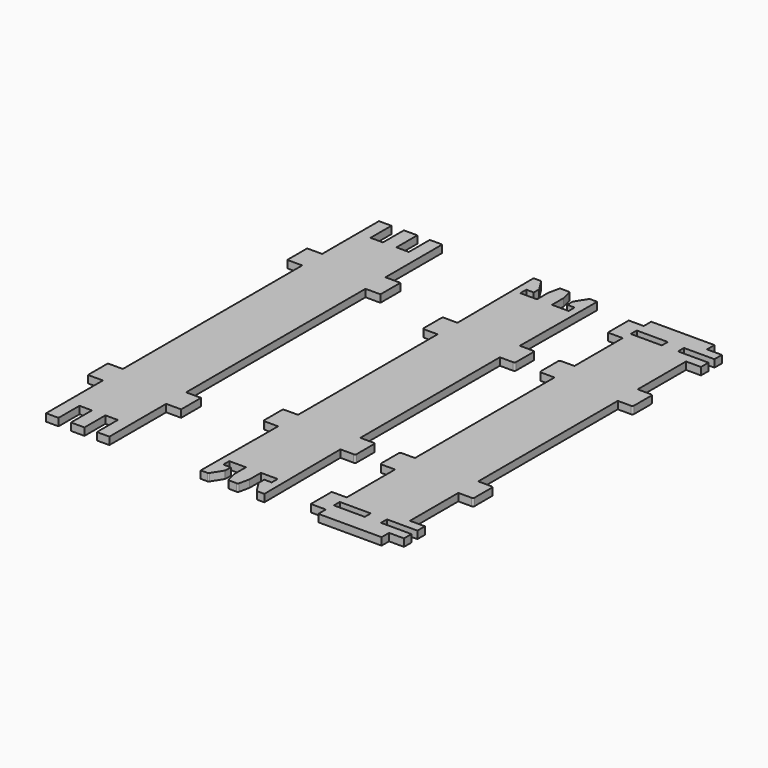
from build123d import *

# Parameters (mm, degrees)
F1_DEPTH = 3
F2_W     = 12.45
F2_H     = 3
F3_DEPTH = 3
F5_DEPTH = 3


with BuildPart() as f1:
    # F0 (on Top) → F1 (new body)
    with BuildSketch(Plane.XY):
        with BuildLine():
            Line((-9.7, 73), (-9.7, 76))
            Line((-9.7, 76), (-6.7, 76))
            Line((-6.7, 76), (-6.7, 78.555361))
            ThreePointArc((-6.7, 78.555361), (-6.726009, 78.738935), (-6.801989, 78.908059))
            Line((-6.801989, 78.908059), (-9.505527, 83.191854))
            ThreePointArc((-9.505527, 83.191854), (-9.745292, 83.417858), (-10.064382, 83.5))
            Line((-10.064382, 83.5), (-12.775105, 83.5))
            Line((-12.775105, 83.5), (-12.5, 45))
            Line((-12.5, 45), (-17.839156, 45))
            ThreePointArc((-17.839156, 45), (-18.306443, 44.806443), (-18.5, 44.339156))
            Line((-18.5, 44.339156), (-18.5, 35.660844))
            ThreePointArc((-18.5, 35.660844), (-18.306443, 35.193557), (-17.839156, 35))
            Line((-17.839156, 35), (-12.5, 35))
            Line((-12.5, 35), (-12.5, 0))
            Line((-12.5, 0), (-12.5, -35))
            Line((-12.5, -35), (-17.839156, -35))
            ThreePointArc((-17.839156, -35), (-18.306443, -35.193557), (-18.5, -35.660844))
            Line((-18.5, -35.660844), (-18.5, -44.339156))
            ThreePointArc((-18.5, -44.339156), (-18.306443, -44.806443), (-17.839156, -45))
            Line((-17.839156, -45), (-12.5, -45))
            Line((-12.5, -45), (-12.775105, -83.5))
            Line((-12.775105, -83.5), (-10.064382, -83.5))
            ThreePointArc((-10.064382, -83.5), (-9.745292, -83.417858), (-9.505527, -83.191854))
            Line((-9.505527, -83.191854), (-6.801989, -78.908059))
            ThreePointArc((-6.801989, -78.908059), (-6.726009, -78.738935), (-6.7, -78.555361))
            Line((-6.7, -78.555361), (-6.7, -76))
            Line((-6.7, -76), (-9.7, -76))
            Line((-9.7, -76), (-9.7, -73))
            Line((-9.7, -73), (-3, -73))
            Line((-3, -73), (-3, -78.746456))
            Line((-3, -78.746456), (-2.101524, -82.764542))
            ThreePointArc((-2.101524, -82.764542), (-1.869774, -83.136093), (-1.456606, -83.281178))
            Line((-1.456606, -83.281178), (0, -83.281178))
            Line((0, -83.281178), (1.456606, -83.281178))
            ThreePointArc((1.456606, -83.281178), (1.869774, -83.136093), (2.101524, -82.764542))
            Line((2.101524, -82.764542), (3, -78.746456))
            Line((3, -78.746456), (3, -73))
            Line((3, -73), (9.7, -73))
            Line((9.7, -73), (9.7, -76))
            Line((9.7, -76), (6.7, -76))
            Line((6.7, -76), (6.7, -78.555361))
            ThreePointArc((6.7, -78.555361), (6.726009, -78.738935), (6.801989, -78.908059))
            Line((6.801989, -78.908059), (9.505527, -83.191854))
            ThreePointArc((9.505527, -83.191854), (9.745292, -83.417858), (10.064382, -83.5))
            Line((10.064382, -83.5), (12.775105, -83.5))
            Line((12.775105, -83.5), (12.5, -45))
            Line((12.5, -45), (17.839156, -45))
            ThreePointArc((17.839156, -45), (18.306443, -44.806443), (18.5, -44.339156))
            Line((18.5, -44.339156), (18.5, -35.660844))
            ThreePointArc((18.5, -35.660844), (18.306443, -35.193557), (17.839156, -35))
            Line((17.839156, -35), (12.5, -35))
            Line((12.5, -35), (12.5, 0))
            Line((12.5, 0), (12.5, 35))
            Line((12.5, 35), (17.839156, 35))
            ThreePointArc((17.839156, 35), (18.306443, 35.193557), (18.5, 35.660844))
            Line((18.5, 35.660844), (18.5, 44.339156))
            ThreePointArc((18.5, 44.339156), (18.306443, 44.806443), (17.839156, 45))
            Line((17.839156, 45), (12.5, 45))
            Line((12.5, 45), (12.775105, 83.5))
            Line((12.775105, 83.5), (10.064382, 83.5))
            ThreePointArc((10.064382, 83.5), (9.745292, 83.417858), (9.505527, 83.191854))
            Line((9.505527, 83.191854), (6.801989, 78.908059))
            ThreePointArc((6.801989, 78.908059), (6.726009, 78.738935), (6.7, 78.555361))
            Line((6.7, 78.555361), (6.7, 76))
            Line((6.7, 76), (9.7, 76))
            Line((9.7, 76), (9.7, 73))
            Line((9.7, 73), (3, 73))
            Line((3, 73), (3, 78.746456))
            Line((3, 78.746456), (2.101524, 82.764542))
            ThreePointArc((2.101524, 82.764542), (1.869774, 83.136093), (1.456606, 83.281178))
            Line((1.456606, 83.281178), (0, 83.281178))
            Line((0, 83.281178), (-1.456606, 83.281178))
            ThreePointArc((-1.456606, 83.281178), (-1.869774, 83.136093), (-2.101524, 82.764542))
            Line((-2.101524, 82.764542), (-3, 78.746456))
            Line((-3, 78.746456), (-3, 73))
            Line((-3, 73), (-9.7, 73))
        make_face()
    extrude(amount=F1_DEPTH)


with BuildPart() as f3:
    # F2 (on Top) → F3 (new body)
    with BuildSketch(Plane.XY):
        with BuildLine():
            Line((34.425482, 45), (29.086326, 45))
            ThreePointArc((29.086326, 45), (28.619039, 44.806443), (28.425482, 44.339156))
            Line((28.425482, 44.339156), (28.425482, 35.660844))
            ThreePointArc((28.425482, 35.660844), (28.619039, 35.193557), (29.086326, 35))
            Line((29.086326, 35), (34.425482, 35))
            Line((34.425482, 35), (34.425482, 0))
            Line((34.425482, 0), (34.425482, -35))
            Line((34.425482, -35), (29.086326, -35))
            ThreePointArc((29.086326, -35), (28.619039, -35.193557), (28.425482, -35.660844))
            Line((28.425482, -35.660844), (28.425482, -44.339156))
            ThreePointArc((28.425482, -44.339156), (28.619039, -44.806443), (29.086326, -45))
            Line((29.086326, -45), (34.425482, -45))
            Line((34.425482, -45), (34.425482, -69.25))
            Line((34.425482, -69.25), (28.425482, -69.25))
            Line((28.425482, -69.25), (28.425482, -79.75))
            Line((28.425482, -79.75), (34.440659, -79.75))
            Line((34.440659, -79.75), (34.440659, -83.5))
            Line((34.440659, -83.5), (59.825482, -83.5))
            Line((59.825482, -83.5), (59.825482, -79.75))
            Line((59.825482, -79.75), (65.825482, -79.75))
            Line((65.825482, -79.75), (65.825482, -76))
            Line((65.825482, -76), (53.600482, -76))
            Line((53.600482, -76), (53.600482, -73))
            Line((53.600482, -73), (65.825482, -73))
            Line((65.825482, -73), (65.825482, -69.25))
            Line((65.825482, -69.25), (59.825482, -69.25))
            Line((59.825482, -69.25), (59.825482, -45))
            Line((59.825482, -45), (65.164638, -45))
            ThreePointArc((65.164638, -45), (65.631925, -44.806443), (65.825482, -44.339156))
            Line((65.825482, -44.339156), (65.825482, -35.660844))
            ThreePointArc((65.825482, -35.660844), (65.631925, -35.193557), (65.164638, -35))
            Line((65.164638, -35), (59.825482, -35))
            Line((59.825482, -35), (59.825482, 0))
            Line((59.825482, 0), (59.825482, 35))
            Line((59.825482, 35), (65.164638, 35))
            ThreePointArc((65.164638, 35), (65.631925, 35.193557), (65.825482, 35.660844))
            Line((65.825482, 35.660844), (65.825482, 44.339156))
            ThreePointArc((65.825482, 44.339156), (65.631925, 44.806443), (65.164638, 45))
            Line((65.164638, 45), (59.825482, 45))
            Line((59.825482, 45), (59.825482, 69.25))
            Line((59.825482, 69.25), (65.825482, 69.25))
            Line((65.825482, 69.25), (65.825482, 73))
            Line((65.825482, 73), (53.600482, 73))
            Line((53.600482, 73), (53.600482, 76))
            Line((53.600482, 76), (65.825482, 76))
            Line((65.825482, 76), (65.825482, 79.75))
            Line((65.825482, 79.75), (59.825482, 79.75))
            Line((59.825482, 79.75), (59.825482, 83.5))
            Line((59.825482, 83.5), (34.440659, 83.5))
            Line((34.440659, 83.5), (34.440659, 79.75))
            Line((34.440659, 79.75), (28.425482, 79.75))
            Line((28.425482, 79.75), (28.425482, 69.25))
            Line((28.425482, 69.25), (34.425482, 69.25))
            Line((34.425482, 69.25), (34.425482, 45))
        make_face()
        with Locations((40.875482, -74.5)):
            Rectangle(F2_W, F2_H, mode=Mode.SUBTRACT)
        with Locations((40.875482, 74.5)):
            Rectangle(F2_W, F2_H, mode=Mode.SUBTRACT)
    extrude(amount=F3_DEPTH)


with BuildPart() as f5:
    # F4 (on Top) → F5 (new body)
    with BuildSketch(Plane.XY):
        Polygon((-74.822811, 45), (-74.822811, 0), (-74.822811, -45), (-80.822811, -45), (-80.822811, -55), (-74.822811, -55), (-74.822811, -83.5), (-69.822811, -83.5), (-69.822811, -73), (-64.822811, -73), (-64.822811, -83.5), (-59.422811, -83.5), (-59.422811, -73), (-54.422811, -73), (-54.422811, -83.5), (-49.422811, -83.5), (-49.422811, -55), (-43.422811, -55), (-43.422811, -45), (-49.422811, -45), (-49.422811, 0), (-49.422811, 45), (-43.422811, 45), (-43.422811, 55), (-49.422811, 55), (-49.422811, 83.5), (-54.422811, 83.5), (-54.422811, 73), (-59.422811, 73), (-59.422811, 83.5), (-64.822811, 83.5), (-64.822811, 73), (-69.822811, 73), (-69.822811, 83.5), (-74.822811, 83.5), (-74.822811, 55), (-80.822811, 55), (-80.822811, 45), align=None)
    extrude(amount=F5_DEPTH)


solid = Compound([f1.part, f3.part, f5.part])
